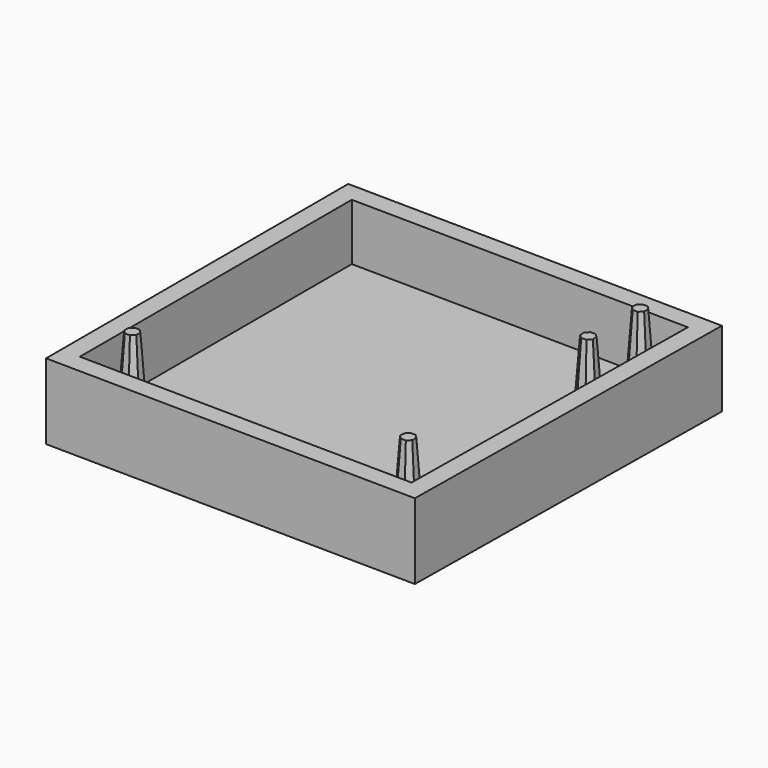
from build123d import *

# Parameters (mm, degrees)
F1_DEPTH  = 25.4
F2_T      = -6.35
F4_DEPTH  = 25.4
F4_TAPER  = 4
F6_DEPTH  = 25.4
F6_TAPER  = 4
F8_DEPTH  = 25.4
F8_TAPER  = 4
F10_DEPTH = 25.4
F10_TAPER = 4


with BuildPart() as f1:
    # F0 (on Top) → F1 (new body)
    with BuildSketch(Plane.XY):
        Polygon((-50.552804023, 67.5352037176), (-50.552804023, -59.4647962824), (74.7760616566, -61.1142246816), (76.4363430164, 65.8749223579), align=None)
    extrude(amount=F1_DEPTH)

    # F2
    f2_openings = [f1.faces().sort_by_distance(p)[0] for p in [
        (12.528514, 3.347032, 25.4),
    ]]
    offset(amount=F2_T, openings=f2_openings)

    # F3 (on face) → F4 (join)
    with BuildSketch(Plane.XY.offset(6.35)):
        Polygon((57.2176291898, 52.4085088478), (57.1761186085, 49.2335088478), (59.3918302252, 46.959092404), (62.5668302252, 46.9175818226), (64.841246669, 49.1332934393), (64.8827572503, 52.3082934393), (62.6670456336, 54.5827098831), (59.4920456336, 54.6242204645), align=None)
    extrude(amount=F4_DEPTH, taper=F4_TAPER)

    # F5 (on face) → F6 (join)
    with BuildSketch(Plane.XY.offset(6.35)):
        Polygon((-38.6233556014, -41.3551133633), (-38.6233556014, -44.5301133633), (-36.3782915711, -46.7751773935), (-33.2032915711, -46.7751773935), (-30.9582275409, -44.5301133633), (-30.9582275409, -41.3551133633), (-33.2032915711, -39.110049333), (-36.3782915711, -39.110049333), align=None)
    extrude(amount=F6_DEPTH, taper=F6_TAPER)

    # F7 (on face) → F8 (join)
    with BuildSketch(Plane.XY.offset(6.35)):
        Polygon((60.750235939, -40.5762630585), (57.575235939, -40.5762630585), (55.3301719088, -42.8213270888), (55.3301719088, -45.9963270888), (57.575235939, -48.241391119), (60.750235939, -48.241391119), (62.9952999693, -45.9963270888), (62.9952999693, -42.8213270888), align=None)
    extrude(amount=F8_DEPTH, taper=F8_TAPER)

    # F9 (on face) → F10 (join)
    with BuildSketch(Plane.XY.offset(6.35)):
        Polygon((64.0322734141, 31.7149339752), (61.6480793024, 33.811656045), (58.4795930846, 33.6083826148), (56.3828710148, 31.2241885032), (56.586144445, 28.0557022853), (58.9703385566, 25.9589802155), (62.1388247745, 26.1622536457), (64.2355468443, 28.5464477573), align=None)
    extrude(amount=F10_DEPTH, taper=F10_TAPER)


solid = f1.part
